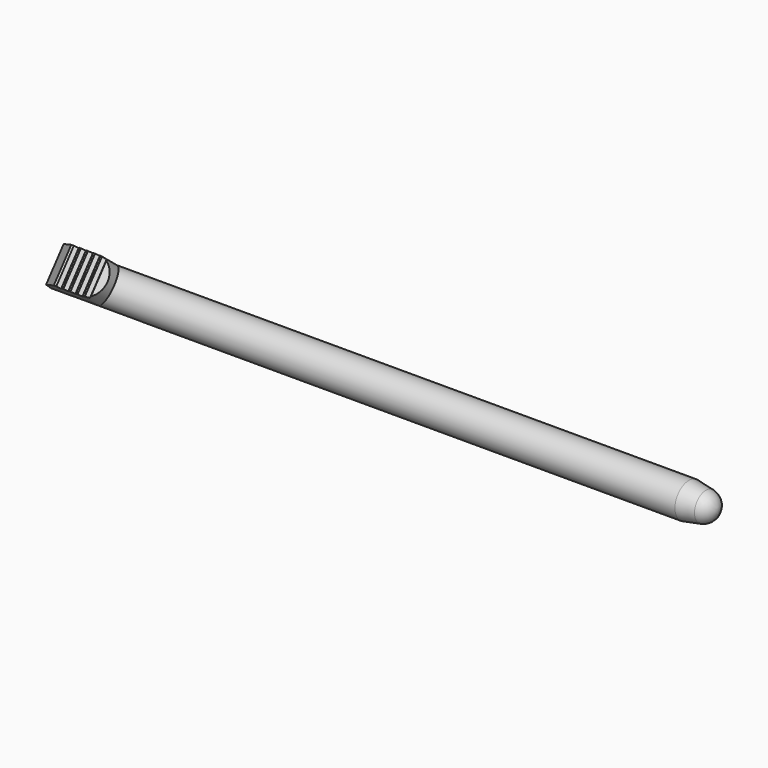
from build123d import *

# Parameters (mm, degrees)
SKETCH_R             = 2.45
PAD_DEPTH            = 94
PAD001_DEPTH         = 3.95
POCKET_DEPTH         = 5
POCKET001_DEPTH      = 5
PAD002_DEPTH         = 1
PAD002_DEPTH_BACK    = 1
POCKET002_DEPTH      = 10
POCKET003_DEPTH      = 100
POCKET003_DEPTH_BACK = -100
BODY_PLACEMENT_ANGLE = 50.86


with BuildPart() as part:
    # Sketch → Pad (new body)
    with BuildSketch(Plane.YZ):
        Circle(SKETCH_R)
    extrude(amount=PAD_DEPTH)

    # Sketch001 → Pad001 (join)
    with BuildSketch(Plane.XY):
        with BuildLine():
            Line((0, -2.45), (0, 2.45))
            Line((0, 2.45), (7.85, 2.45))
            ThreePointArc((7.85, -2.45), (10.3, 0), (7.85, 2.45))
            Line((7.85, -2.45), (0, -2.45))
        make_face()
    extrude(amount=PAD001_DEPTH)

    # Sketch002 (on Face4 of Pad001) → Pocket (cut)
    with BuildSketch(Plane(origin=(0, -2.45, 0), x_dir=(0, 0, -1), z_dir=(0, -1, 0))):
        Polygon((-3.95, 3.943303), (-1.685825, 1.452711), (2.45, 0.512751), (2.45, -0.487249), (-3.95, -0.487249), align=None)
    extrude(amount=-POCKET_DEPTH, mode=Mode.SUBTRACT)

    # Sketch003 (on Face3 of Pocket) → Pocket001 (cut)
    with BuildSketch(Plane(origin=(0, -2.45, 0), x_dir=(0, 0, -1), z_dir=(0, -1, 0))):
        Polygon((-3.95, 8.3), (-3.95, 8.05), (-3.45, 7.675), (-3.95, 7.3), (-3.95, 7.05), (-3.45, 6.675), (-3.95, 6.3), (-3.95, 6.05), (-3.45, 5.675), (-3.95, 5.3), (-3.95, 5.05), (-3.45, 4.675), (-3.95, 4.3), (-4.95, 4.3), (-4.95, 9.05), (-3.95, 9.05), (-3.45, 8.675), align=None)
    extrude(amount=-POCKET001_DEPTH, mode=Mode.SUBTRACT)

    # Sketch004 → Pad002 (join, two sides)
    with BuildSketch(Plane.XZ) as pad002_sk:
        with BuildLine():
            add(Edge.make_bspline(
                [(9.8, -2.45), (9.8, -1.583975), (8.3, -2.016987), (6.8, -2.45), (8.3, -2.883013), (9.8, -3.316025), (9.8, -2.45)],
                knots=[0, 0, 0, 2.094395, 2.094395, 4.18879, 4.18879, 6.283185, 6.283185, 6.283185], degree=2, weights=[1, 0.5, 1, 0.5, 1, 0.5, 1]))
        make_face()
    extrude(amount=PAD002_DEPTH)
    extrude(pad002_sk.sketch, amount=-PAD002_DEPTH_BACK)

    # Sketch006 (on Face2 of Pad002) → Pocket002 (cut)
    with BuildSketch(Plane(origin=(0, -2.45, 0), x_dir=(0, 0, -1), z_dir=(0, -1, 0))):
        with BuildLine():
            Line((1.45, 5.25), (1.45, 12.35))
            ThreePointArc((1.45, 12.35), (1.025305, 13.375305), (0, 13.8))
            Line((0, 13.8), (0, 3.8))
            ThreePointArc((0, 3.8), (1.025305, 4.224695), (1.45, 5.25))
        make_face()
    extrude(amount=-POCKET002_DEPTH, mode=Mode.SUBTRACT)

    # Sketch005 → Groove (revolve, cut)
    with BuildSketch(Plane.XZ):
        with BuildLine():
            ThreePointArc((94, 0), (93.52222, 1.315522), (92.311596, 2.017847))
            Line((92.311596, 2.017847), (89.9, 2.45))
            Line((89.9, 2.45), (94, 2.45))
            Line((94, 2.45), (95, 2.45))
            Line((95, 2.45), (95, 0))
            Line((95, 0), (94, 0))
        make_face()
    revolve(axis=Axis((0, 0, 0), (1, 0, 0)), mode=Mode.SUBTRACT)

    # Sketch007 → Pocket003 (cut, two sides)
    with BuildSketch(Plane.YZ) as pocket003_sk:
        Polygon((-0.747522, -2.95), (-2.020175, -2.95), (-2.020175, -1.386144), align=None)
    extrude(amount=-POCKET003_DEPTH, mode=Mode.SUBTRACT)
    extrude(pocket003_sk.sketch, amount=-POCKET003_DEPTH_BACK, mode=Mode.SUBTRACT)


with BuildPart() as part_1:
    # Body placement: moved
    add(part.part.rotate(Axis((0, 0, 0), (1, 0, 0)), BODY_PLACEMENT_ANGLE))


solid = part_1.part
